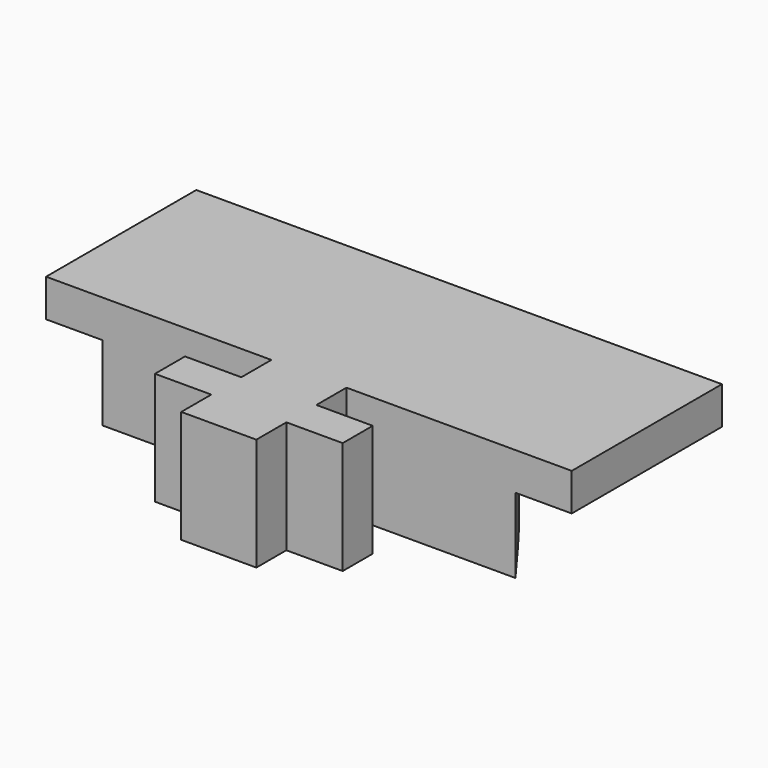
from build123d import *

# Parameters (mm, degrees)
F0_R     = 3.75
F1_DEPTH = 5
F2_DEPTH = 10
F3_DEPTH = 5


with BuildPart() as f1:
    # F0 (on Top) → F1 (new body)
    with BuildSketch(Plane.XY):
        with BuildLine():
            Line((35, 12.5), (0, 12.5))
            add(Edge.make_bspline(
                [(0, 12.5), (9.166667, 12.5), (18.333333, 0), (27.5, -12.5)],
                knots=[37.165172, 37.165172, 37.165172, 37.165172, 74.330344, 74.330344, 74.330344, 74.330344], degree=3))
            Line((27.5, -12.5), (35, -12.5))
            Line((35, -12.5), (35, 12.5))
        make_face()
        with BuildLine():
            Line((0, 12.5), (-35, 12.5))
            Line((-35, 12.5), (-35, -12.5))
            Line((-35, -12.5), (-27.5, -12.5))
            add(Edge.make_bspline(
                [(-27.5, -12.5), (-18.333333, 0), (-9.166667, 12.5), (0, 12.5)],
                knots=[0, 0, 0, 0, 37.165172, 37.165172, 37.165172, 37.165172], degree=3))
        make_face()
        with BuildLine():
            add(Edge.make_bspline(
                [(0, 12.5), (9.166667, 12.5), (18.333333, 0), (27.5, -12.5)],
                knots=[37.165172, 37.165172, 37.165172, 37.165172, 74.330344, 74.330344, 74.330344, 74.330344], degree=3))
            add(Edge.make_bspline(
                [(-27.5, -12.5), (-18.333333, 0), (-9.166667, 12.5), (0, 12.5)],
                knots=[0, 0, 0, 0, 37.165172, 37.165172, 37.165172, 37.165172], degree=3))
            Line((-27.5, -12.5), (-5, -12.5))
            Line((-5, -12.5), (5, -12.5))
            Line((5, -12.5), (27.5, -12.5))
        make_face()
        with Locations((0, 2.5)):
            Circle(F0_R, mode=Mode.SUBTRACT)
        Polygon((5, -12.5), (-5, -12.5), (-5, -17.5), (-12.5, -17.5), (-12.5, -22.5), (-5, -22.5), (-5, -27.5), (0, -27.5), (5, -27.5), (5, -22.5), (12.5, -22.5), (12.5, -17.5), (5, -17.5), align=None)
    extrude(amount=F1_DEPTH)

    # F0 (on Top) → F2 (join)
    with BuildSketch(Plane.XY):
        with BuildLine():
            add(Edge.make_bspline(
                [(0, 12.5), (9.166667, 12.5), (18.333333, 0), (27.5, -12.5)],
                knots=[37.165172, 37.165172, 37.165172, 37.165172, 74.330344, 74.330344, 74.330344, 74.330344], degree=3))
            add(Edge.make_bspline(
                [(-27.5, -12.5), (-18.333333, 0), (-9.166667, 12.5), (0, 12.5)],
                knots=[0, 0, 0, 0, 37.165172, 37.165172, 37.165172, 37.165172], degree=3))
            Line((-27.5, -12.5), (-5, -12.5))
            Line((-5, -12.5), (5, -12.5))
            Line((5, -12.5), (27.5, -12.5))
        make_face()
        with Locations((0, 2.5)):
            Circle(F0_R, mode=Mode.SUBTRACT)
        Polygon((5, -12.5), (-5, -12.5), (-5, -17.5), (-12.5, -17.5), (-12.5, -22.5), (-5, -22.5), (-5, -27.5), (0, -27.5), (5, -27.5), (5, -22.5), (12.5, -22.5), (12.5, -17.5), (5, -17.5), align=None)
    extrude(amount=-F2_DEPTH)

    # F0 (on Top) → F3 (join)
    with BuildSketch(Plane.XY):
        with Locations((0, 2.5)):
            Circle(F0_R)
    extrude(amount=F3_DEPTH)


solid = f1.part
